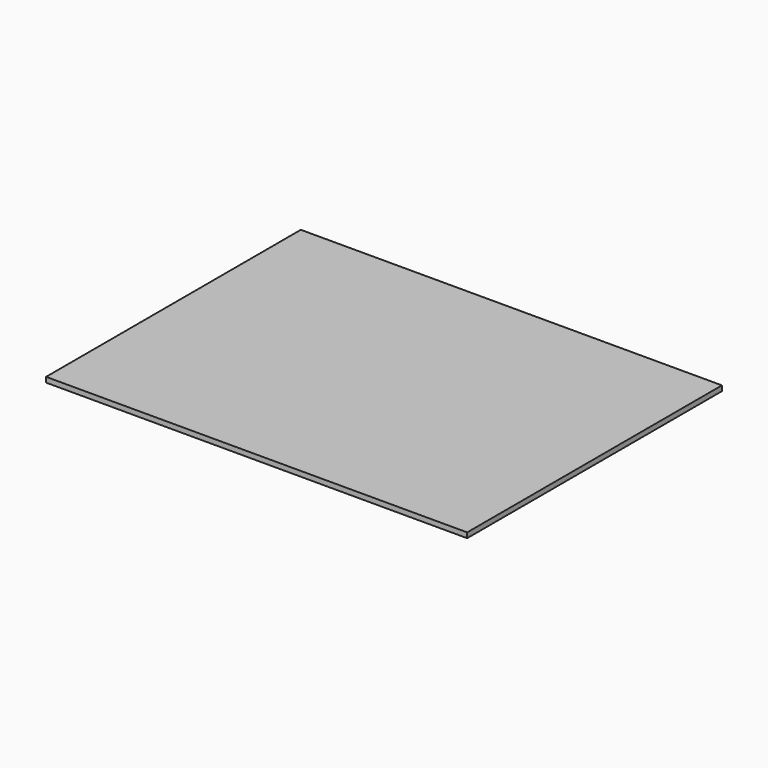
from build123d import *

# Parameters (mm, degrees)
F0_W     = 410
F0_H     = 310
F1_DEPTH = 35
F3_DEPTH = 413
F7_DEPTH = 455


with BuildPart() as f1:
    # F0 (on Top) → F1 (new body)
    with BuildSketch(Plane.XY):
        Rectangle(F0_W, F0_H)
    extrude(amount=F1_DEPTH)


with BuildPart() as f3:
    # F2 (on face) → F3 (new body)
    with BuildSketch(Plane.XZ.offset(155)):
        Polygon((-186.286226, -45.123053), (-145, 0), (-205, 30), (-247.468904, 11.412853), align=None)
    extrude(amount=-F3_DEPTH)


with BuildPart() as f4_1:
    # F4: instance of F3
    add(f3.part.mirror(Plane.YZ))


with BuildPart() as f1_1:
    add(f1.part)

    # F5: cut F3, F4_1
    add(f3.part, mode=Mode.SUBTRACT)
    add(f4_1.part, mode=Mode.SUBTRACT)


with BuildPart() as f7:
    # F6 (on face) → F7 (new body)
    with BuildSketch(Plane(origin=(-205, 0, 0), x_dir=(0, -1, 0), z_dir=(-1, 0, 0))):
        Polygon((-155, -27.468236), (-95, 0), (-155, 30), (-189.205855, 15.520646), align=None)
    extrude(amount=-F7_DEPTH)


with BuildPart() as f8_1:
    # F8: instance of F7
    add(f7.part.mirror(Plane.XZ))


with BuildPart() as f1_2:
    add(f1_1.part)

    # F9: cut F7, F8_1
    add(f7.part, mode=Mode.SUBTRACT)
    add(f8_1.part, mode=Mode.SUBTRACT)


solid = f1_2.part
